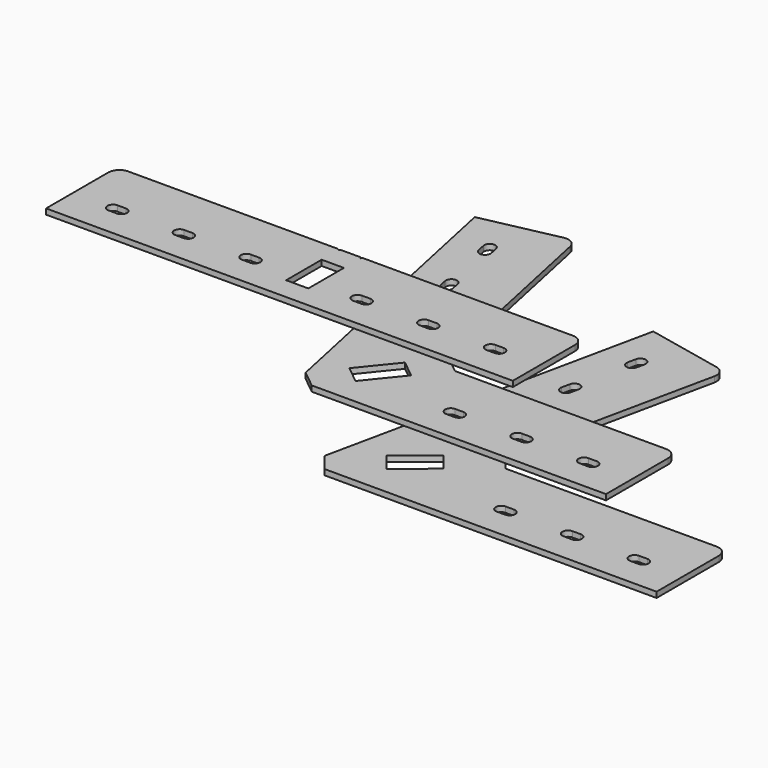
from build123d import *

# Parameters (mm, degrees)
F1_DEPTH = 2
F4_DEPTH = 2
F7_DEPTH = 2


with BuildPart() as f1:
    # F0 (on Top) → F1 (new body)
    with BuildSketch(Plane.XY):
        with BuildLine():
            Line((16.2352401685, 8), (135.7519491777, 8))
            Line((135.7519491777, 8), (135.7519491777, 36))
            ThreePointArc((135.7519491777, 36), (134.5803763024, 38.8284271247), (131.7519491777, 40))
            Line((131.7519491777, 40), (55.7519491777, 40))
            Line((55.7519491777, 40), (53.2346676135, 43.1085838458))
            Line((53.2346676135, 43.1085838458), (50.7173860493, 46.2171676917))
            Line((50.7173860493, 46.2171676917), (66.5186745514, 120.5563853474))
            ThreePointArc((66.5186745514, 120.5563853474), (65.9607664203, 123.5665882508), (63.4377309118, 125.3006225136))
            Line((63.4377309118, 125.3006225136), (36.0495980912, 131.1221498565))
            Line((36.0495980912, 131.1221498565), (11.2006770401, 14.2171676917))
            Line((11.2006770401, 14.2171676917), (13.7179586043, 11.1085838458))
            Line((13.7179586043, 11.1085838458), (16.2352401685, 8))
        make_face()
        Polygon((37.1761992364, 35.2517308201), (39.6934808006, 32.1431469742), (42.2107623648, 29.0345631284), (29.7764269814, 18.9654368716), (27.2591454172, 22.0740207174), (24.7418638531, 25.1826045633), align=None, mode=Mode.SUBTRACT)
        with BuildLine():
            ThreePointArc((70.2519491777, 18), (68.2519491777, 20), (70.2519491777, 22))
            Line((70.2519491777, 22), (73.2519491777, 22))
            ThreePointArc((73.2519491777, 22), (75.2519491777, 20), (73.2519491777, 18))
            Line((73.2519491777, 18), (70.2519491777, 18))
        make_face(mode=Mode.SUBTRACT)
        with BuildLine():
            ThreePointArc((36.1254487529, 64.142718337), (33.7533301698, 62.6022465172), (32.21285835, 64.9743651003))
            Line((32.21285835, 64.9743651003), (32.8365934224, 67.9088079025))
            ThreePointArc((32.8365934224, 67.9088079025), (35.2087120055, 69.4492797223), (36.7491838254, 67.0771611392))
            Line((36.7491838254, 67.0771611392), (36.1254487529, 64.142718337))
        make_face(mode=Mode.SUBTRACT)
        with BuildLine():
            ThreePointArc((94.2519491777, 18), (92.2519491777, 20), (94.2519491777, 22))
            Line((94.2519491777, 22), (97.2519491777, 22))
            ThreePointArc((97.2519491777, 22), (99.2519491777, 20), (97.2519491777, 18))
            Line((97.2519491777, 18), (94.2519491777, 18))
        make_face(mode=Mode.SUBTRACT)
        with BuildLine():
            ThreePointArc((118.2519491777, 18), (116.2519491777, 20), (118.2519491777, 22))
            Line((118.2519491777, 22), (121.2519491777, 22))
            ThreePointArc((121.2519491777, 22), (123.2519491777, 20), (121.2519491777, 18))
            Line((121.2519491777, 18), (118.2519491777, 18))
        make_face(mode=Mode.SUBTRACT)
        with BuildLine():
            ThreePointArc((41.1153293325, 87.6182607546), (38.7432107494, 86.0777889348), (37.2027389296, 88.4499075179))
            Line((37.2027389296, 88.4499075179), (37.8264740021, 91.3843503201))
            ThreePointArc((37.8264740021, 91.3843503201), (40.1985925852, 92.9248221399), (41.739064405, 90.5527035568))
            Line((41.739064405, 90.5527035568), (41.1153293325, 87.6182607546))
        make_face(mode=Mode.SUBTRACT)
        with BuildLine():
            ThreePointArc((46.1052099122, 111.0938031722), (43.7330913291, 109.5533313524), (42.1926195092, 111.9254499355))
            Line((42.1926195092, 111.9254499355), (42.8163545817, 114.8598927377))
            ThreePointArc((42.8163545817, 114.8598927377), (45.1884731648, 116.4003645575), (46.7289449846, 114.0282459744))
            Line((46.7289449846, 114.0282459744), (46.1052099122, 111.0938031722))
        make_face(mode=Mode.SUBTRACT)
    extrude(amount=F1_DEPTH)


with BuildPart() as f4:
    # F3 (on offset) → F4 (new body)
    with BuildSketch(Plane.XY.offset(25)):
        with BuildLine():
            Line((8.5167266833, 10.5172815642), (11.6253105291, 8))
            Line((11.6253105291, 8), (117.5383995914, 8))
            Line((117.5383995914, 8), (117.5383995914, 36))
            ThreePointArc((117.5383995914, 36), (116.3668267161, 38.8284271247), (113.5383995914, 40))
            Line((113.5383995914, 40), (37.5383995914, 40))
            Line((37.5383995914, 40), (34.4298157455, 42.5172815642))
            Line((34.4298157455, 42.5172815642), (31.3212318997, 45.0345631284))
            Line((31.3212318997, 45.0345631284), (15.5199433976, 119.3737807842))
            ThreePointArc((15.5199433976, 119.3737807842), (13.7859091347, 121.8968162927), (10.7757062314, 122.4547244238))
            Line((10.7757062314, 122.4547244238), (-16.6124265892, 116.6331970809))
            Line((-16.6124265892, 116.6331970809), (5.4081428375, 13.0345631284))
            Line((5.4081428375, 13.0345631284), (8.5167266833, 10.5172815642))
        make_face()
        Polygon((23.399250497, 35.2517308201), (26.5078343428, 32.7344492559), (29.6164181887, 30.2171676917), (19.5472919319, 17.7828323083), (16.438708086, 20.3001138725), (13.3301242402, 22.8173954367), align=None, mode=Mode.SUBTRACT)
        with BuildLine():
            ThreePointArc((10.6998555697, 55.4752929043), (9.1593837498, 53.1031743212), (6.7872651667, 54.643646141))
            Line((6.7872651667, 54.643646141), (6.1635300943, 57.5780889432))
            ThreePointArc((6.1635300943, 57.5780889432), (7.7040019141, 59.9502075264), (10.0761204972, 58.4097357065))
            Line((10.0761204972, 58.4097357065), (10.6998555697, 55.4752929043))
        make_face(mode=Mode.SUBTRACT)
        with BuildLine():
            Line((55.0383995914, 18), (52.0383995914, 18))
            ThreePointArc((52.0383995914, 18), (50.0383995914, 20), (52.0383995914, 22))
            Line((52.0383995914, 22), (55.0383995914, 22))
            ThreePointArc((55.0383995914, 22), (57.0383995914, 20), (55.0383995914, 18))
        make_face(mode=Mode.SUBTRACT)
        with BuildLine():
            Line((79.0383995914, 18), (76.0383995914, 18))
            ThreePointArc((76.0383995914, 18), (74.0383995914, 20), (76.0383995914, 22))
            Line((76.0383995914, 22), (79.0383995914, 22))
            ThreePointArc((79.0383995914, 22), (81.0383995914, 20), (79.0383995914, 18))
        make_face(mode=Mode.SUBTRACT)
        with BuildLine():
            Line((103.0383995914, 18), (100.0383995914, 18))
            ThreePointArc((100.0383995914, 18), (98.0383995914, 20), (100.0383995914, 22))
            Line((100.0383995914, 22), (103.0383995914, 22))
            ThreePointArc((103.0383995914, 22), (105.0383995914, 20), (103.0383995914, 18))
        make_face(mode=Mode.SUBTRACT)
        with BuildLine():
            ThreePointArc((5.70997499, 78.9508353219), (4.1695031702, 76.5787167388), (1.7973845871, 78.1191885587))
            Line((1.7973845871, 78.1191885587), (1.1736495146, 81.0536313609))
            ThreePointArc((1.1736495146, 81.0536313609), (2.7141213345, 83.425749944), (5.0862399176, 81.8852781241))
            Line((5.0862399176, 81.8852781241), (5.70997499, 78.9508353219))
        make_face(mode=Mode.SUBTRACT)
        with BuildLine():
            ThreePointArc((0.7200944104, 102.4263777395), (-0.8203774094, 100.0542591564), (-3.1924959925, 101.5947309763))
            Line((-3.1924959925, 101.5947309763), (-3.816231065, 104.5291737785))
            ThreePointArc((-3.816231065, 104.5291737785), (-2.2757592452, 106.9012923616), (0.0963593379, 105.3608205417))
            Line((0.0963593379, 105.3608205417), (0.7200944104, 102.4263777395))
        make_face(mode=Mode.SUBTRACT)
    extrude(amount=F4_DEPTH)


with BuildPart() as f7:
    # F6 (on offset) → F7 (new body)
    with BuildSketch(Plane.XY.offset(50)):
        with BuildLine():
            Line((4, 8), (84, 8))
            Line((84, 8), (84, 36))
            ThreePointArc((84, 36), (82.8284271247, 38.8284271247), (80, 40))
            Line((80, 40), (4.5, 40))
            Line((4.5, 40), (4, 39.5))
            Line((4, 39.5), (3.5, 40))
            Line((3.5, 40), (0, 40))
            Line((0, 40), (-3.5, 40))
            Line((-3.5, 40), (-4, 39.5))
            Line((-4, 39.5), (-4.5, 40))
            Line((-4.5, 40), (-80, 40))
            ThreePointArc((-80, 40), (-82.8284271247, 38.8284271247), (-84, 36))
            Line((-84, 36), (-84, 8))
            Line((-84, 8), (-4, 8))
            Line((-4, 8), (0, 8))
            Line((0, 8), (4, 8))
        make_face()
        with BuildLine():
            Line((-66.5, 18), (-69.5, 18))
            ThreePointArc((-69.5, 18), (-71.5, 20), (-69.5, 22))
            Line((-69.5, 22), (-66.5, 22))
            ThreePointArc((-66.5, 22), (-64.5, 20), (-66.5, 18))
        make_face(mode=Mode.SUBTRACT)
        with BuildLine():
            Line((-45.5, 22), (-42.5, 22))
            ThreePointArc((-42.5, 22), (-40.5, 20), (-42.5, 18))
            Line((-42.5, 18), (-45.5, 18))
            ThreePointArc((-45.5, 18), (-47.5, 20), (-45.5, 22))
        make_face(mode=Mode.SUBTRACT)
        with BuildLine():
            Line((-18.5, 18), (-21.5, 18))
            ThreePointArc((-21.5, 18), (-23.5, 20), (-21.5, 22))
            Line((-21.5, 22), (-18.5, 22))
            ThreePointArc((-18.5, 22), (-16.5, 20), (-18.5, 18))
        make_face(mode=Mode.SUBTRACT)
        with BuildLine():
            ThreePointArc((18.5, 18), (16.5, 20), (18.5, 22))
            Line((18.5, 22), (21.5, 22))
            ThreePointArc((21.5, 22), (23.5, 20), (21.5, 18))
            Line((21.5, 18), (18.5, 18))
        make_face(mode=Mode.SUBTRACT)
        with BuildLine():
            ThreePointArc((42.5, 18), (40.5, 20), (42.5, 22))
            Line((42.5, 22), (45.5, 22))
            ThreePointArc((45.5, 22), (47.5, 20), (45.5, 18))
            Line((45.5, 18), (42.5, 18))
        make_face(mode=Mode.SUBTRACT)
        with BuildLine():
            ThreePointArc((66.5, 18), (64.5, 20), (66.5, 22))
            Line((66.5, 22), (69.5, 22))
            ThreePointArc((69.5, 22), (71.5, 20), (69.5, 18))
            Line((69.5, 18), (66.5, 18))
        make_face(mode=Mode.SUBTRACT)
        Polygon((4, 16), (0, 16), (-4, 16), (-4, 32), (0, 32), (4, 32), align=None, mode=Mode.SUBTRACT)
    extrude(amount=F7_DEPTH)


solid = Compound([f1.part, f4.part, f7.part])
